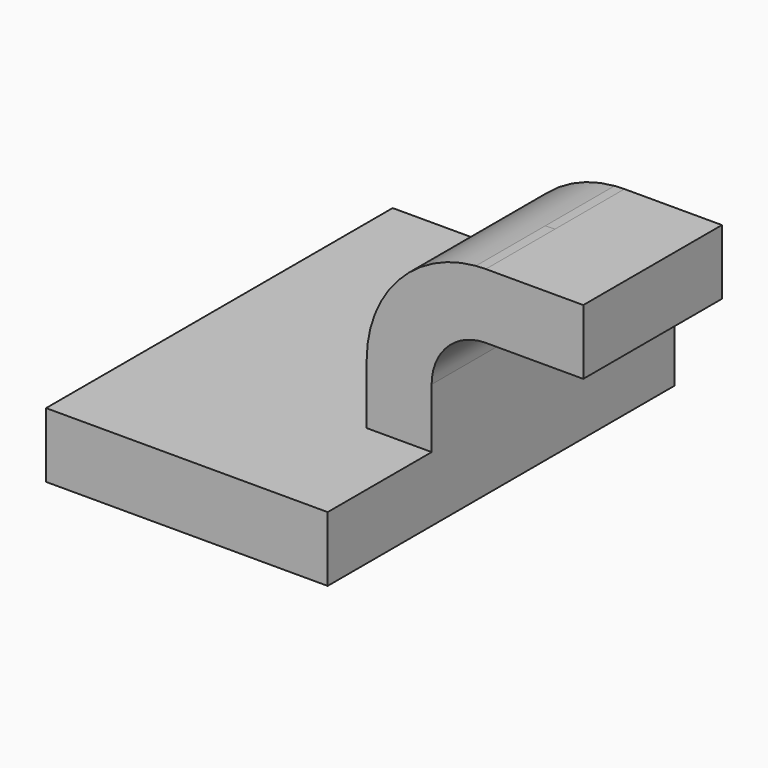
from build123d import *

# Parameters (mm, degrees)
F1_DEPTH = 63.5
F0_W     = 25.4
F0_H     = 19.05
F2_DEPTH = 25.4


with BuildPart() as f1:
    # F0 (on Front) → F1 (new body, symmetric)
    with BuildSketch(Plane.XZ):
        Polygon((-41.275, 9.525), (-41.275, -9.525), (41.275, -9.525), (41.275, 9.525), (22.225, 9.525), align=None)
    extrude(amount=F1_DEPTH, both=True)

    # F0 (on Front) → F2 (join, symmetric)
    with BuildSketch(Plane.XZ):
        with BuildLine():
            Line((22.225, 9.525), (41.275, 9.525))
            Line((41.275, 9.525), (41.275, 27.0002))
            ThreePointArc((41.275, 27.0002), (45.9246798487, 38.2255201513), (57.15, 42.8752))
            Line((57.15, 42.8752), (60.325, 42.8752))
            Line((60.325, 42.8752), (60.325, 61.9252))
            Line((60.325, 61.9252), (57.15, 61.9252))
            add(Edge.make_bspline(
                [(54.2509610844, 61.8046709537), (55.223787741, 61.8579046619), (56.1904041121, 61.8981915291), (57.15, 61.9252)],
                knots=[108.9688631061, 108.9688631061, 108.9688631061, 108.9688631061, 111.5045361635, 111.5045361635, 111.5045361635, 111.5045361635], degree=3))
            ThreePointArc((54.2509610844, 61.8046709537), (31.4497610991, 50.6487379133), (22.225, 27.0002))
            Line((22.225, 27.0002), (22.225, 9.525))
        make_face()
        with Locations((73.025, 52.4002)):
            Rectangle(F0_W, F0_H)
    extrude(amount=F2_DEPTH, both=True)


solid = f1.part
